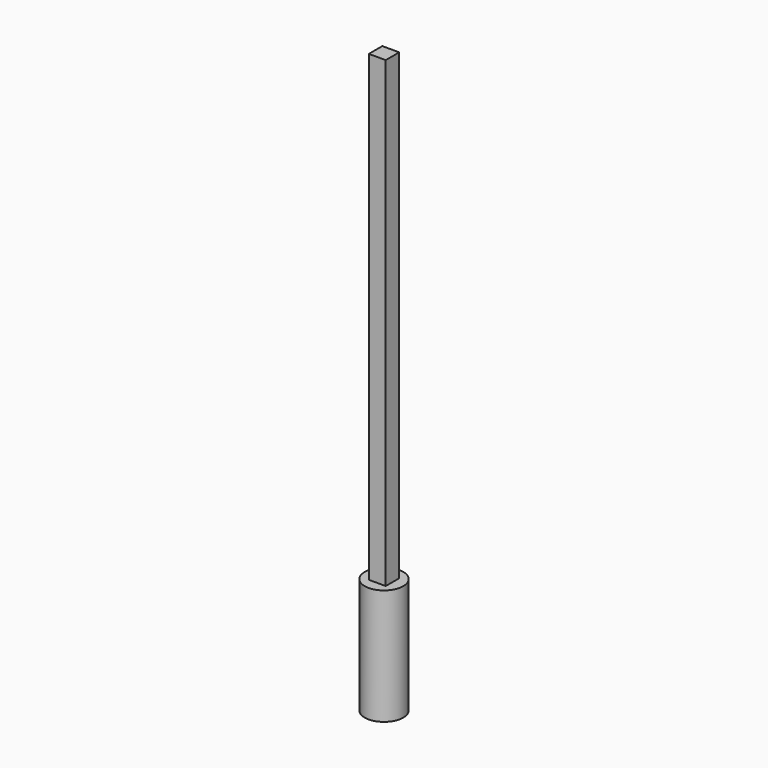
from build123d import *

# Parameters (mm, degrees)
F0_R     = 152.4
F1_DEPTH = 914.4
F2_W     = 133.35
F2_H     = 133.35
F3_DEPTH = 3657.6


with BuildPart() as f1:
    # F0 (on Top) → F1 (new body)
    with BuildSketch(Plane.XY):
        Circle(F0_R)
    extrude(amount=-F1_DEPTH)

    # F2 (on face) → F3 (join)
    with BuildSketch(Plane.XY):
        Rectangle(F2_W, F2_H)
    extrude(amount=F3_DEPTH)


solid = f1.part
